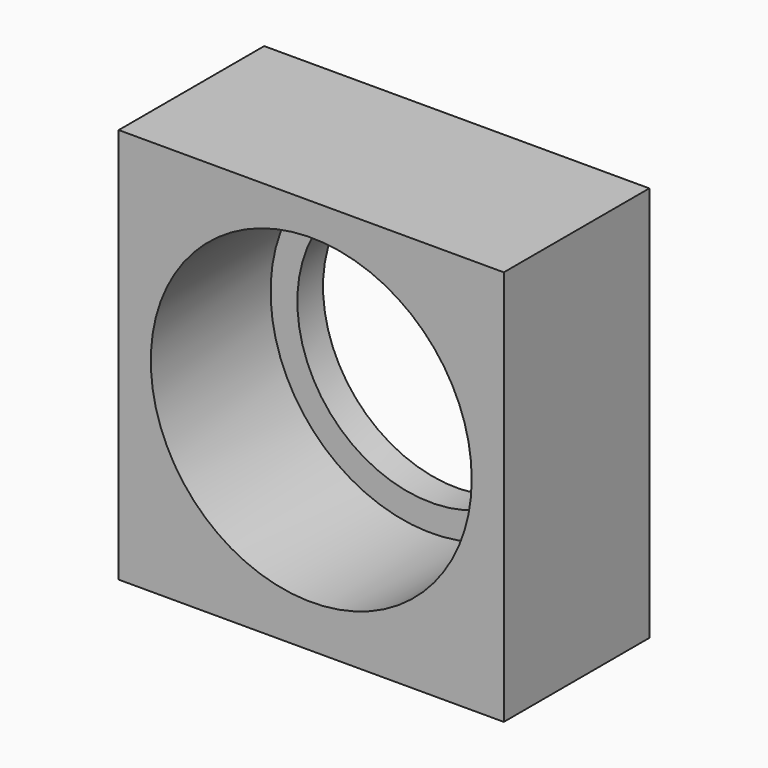
from build123d import *

# Parameters (mm, degrees)
F0_W     = 36
F0_H     = 37
F0_R     = 15
F1_DEPTH = 14
F0_R_2   = 12.5
F2_DEPTH = 3
F3_R     = 2.5
F4_DEPTH = 8


with BuildPart() as f1:
    # F0 (on Front) → F1 (new body)
    with BuildSketch(Plane.XZ):
        with Locations((0, -0.5)):
            Rectangle(F0_W, F0_H)
        Circle(F0_R, mode=Mode.SUBTRACT)
    extrude(amount=F1_DEPTH)

    # F0 (on Front) → F2 (join)
    with BuildSketch(Plane.XZ):
        with Locations((0, -0.5)):
            Rectangle(F0_W, F0_H)
        Circle(F0_R, mode=Mode.SUBTRACT)
        Circle(F0_R)
        Circle(F0_R_2, mode=Mode.SUBTRACT)
    extrude(amount=-F2_DEPTH)

    # F3 (on face) → F4 (cut)
    with BuildSketch(Plane(origin=(0, 0, -19), x_dir=(1, 0, 0), z_dir=(0, 0, -1))):
        with Locations((-13, 5.5)):
            Circle(F3_R)
        with Locations((13, 5.5)):
            Circle(F3_R)
    extrude(amount=-F4_DEPTH, mode=Mode.SUBTRACT)


solid = f1.part
